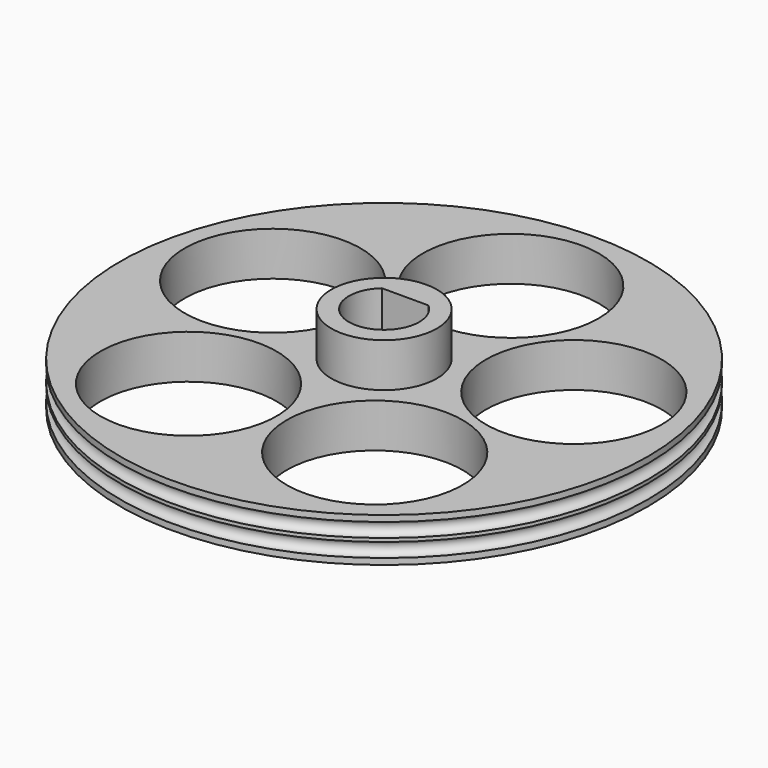
from build123d import *

# Parameters (mm, degrees)
CYLINDER003_R     = 10
CYLINDER003_DEPTH = 10
ARRAY_COUNT       = 5
TORUS001_R        = 0.8
TORUS_R           = 0.8
CYLINDER_R        = 4
CYLINDER_DEPTH    = 10
BOX_W             = 8
BOX_H             = 7
BOX_DEPTH         = 10
CYLINDER002_R     = 6
CYLINDER002_DEPTH = 10
CYLINDER001_R     = 30
CYLINDER001_DEPTH = 5


with BuildPart() as fusion001:
    # Cylinder003 → Cylinder003 (new body)
    with BuildSketch(Plane(origin=(0, 18, 0), x_dir=(1, 0, 0), z_dir=(0, 0, 1))):
        Circle(CYLINDER003_R)
    extrude(amount=CYLINDER003_DEPTH)

    # Array: Fusion001 ×5 about axis
    array_axis = Axis((0, 0, 0), (0, 0, 1))


with BuildPart() as fusion001_1:
    add(fusion001.part)
    for i in range(1, ARRAY_COUNT):
        add(fusion001.part.rotate(array_axis, i * 360 / ARRAY_COUNT))


with BuildPart() as torus001:
    # Torus001 → Torus001 (revolve)
    with BuildSketch(Plane(origin=(0, 0, 3.5), x_dir=(1, 0, 0), z_dir=(0, -1, 0))):
        with Locations((30, 0)):
            Circle(TORUS001_R)
    revolve(axis=Axis((0, 0, 3.5), (0, 0, 1)))


with BuildPart() as torus:
    # Torus → Torus (revolve)
    with BuildSketch(Plane(origin=(0, 0, 1.5), x_dir=(1, 0, 0), z_dir=(0, -1, 0))):
        with Locations((30, 0)):
            Circle(TORUS_R)
    revolve(axis=Axis((0, 0, 1.5), (0, 0, 1)))


with BuildPart() as cylinder:
    # Cylinder → Cylinder (new body)
    with BuildSketch(Plane.XY):
        Circle(CYLINDER_R)
    extrude(amount=CYLINDER_DEPTH)


with BuildPart() as common:
    # Box → Box (new body)
    with BuildSketch(Plane(origin=(-4, -4, 0), x_dir=(1, 0, 0), z_dir=(0, 0, 1))):
        with Locations((4, 3.5)):
            Rectangle(BOX_W, BOX_H)
    extrude(amount=BOX_DEPTH)

    # Common: intersect Cylinder
    add(cylinder.part, mode=Mode.INTERSECT)


with BuildPart() as cylinder002:
    # Cylinder002 → Cylinder002 (new body)
    with BuildSketch(Plane.XY):
        Circle(CYLINDER002_R)
    extrude(amount=CYLINDER002_DEPTH)


with BuildPart() as cut003:
    # Cylinder001 → Cylinder001 (new body)
    with BuildSketch(Plane.XY):
        Circle(CYLINDER001_R)
    extrude(amount=CYLINDER001_DEPTH)

    # Fusion: union Cylinder002
    add(cylinder002.part)

    # Cut: cut Common
    add(common.part, mode=Mode.SUBTRACT)

    # Cut001: cut Torus
    add(torus.part, mode=Mode.SUBTRACT)

    # Cut002: cut Torus001
    add(torus001.part, mode=Mode.SUBTRACT)

    # Cut003: cut Fusion001
    add(fusion001_1.part, mode=Mode.SUBTRACT)


with BuildPart() as cut003_1:
    # Cut003 placement: moved
    add(cut003.part.moved(Location((0, 0, 14))))


solid = cut003_1.part
